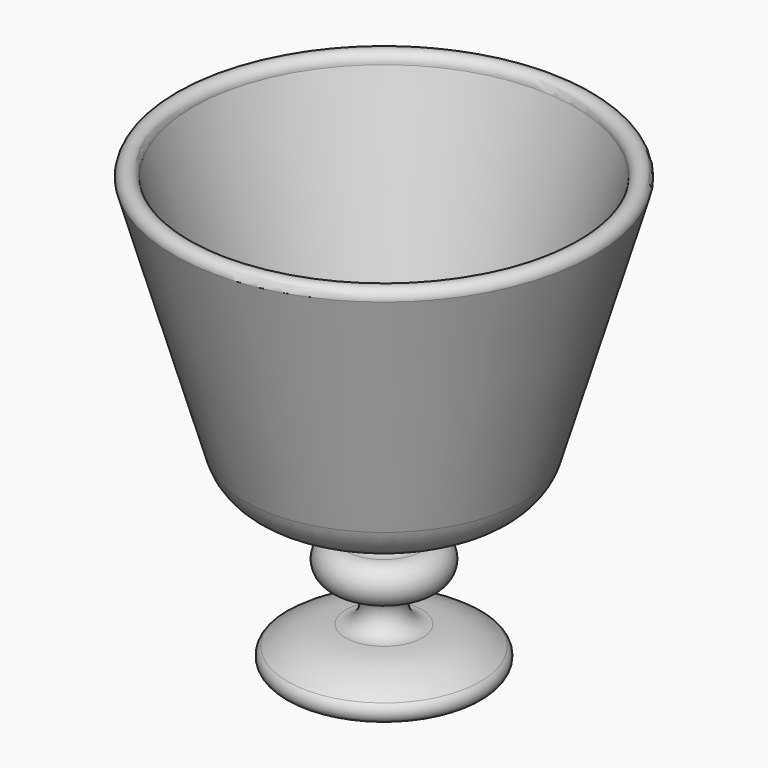
from build123d import *


with BuildPart() as f1:
    # F0 (on Front) → F1 (revolve)
    with BuildSketch(Plane.XZ):
        with BuildLine():
            Line((0, -28.575), (0, 0))
            Line((0, 0), (-14.30351, 0))
            ThreePointArc((-14.30351, 0), (-18.105298, 1.263851), (-20.393733, 4.552313))
            Line((-20.393733, 4.552313), (-31.75, 43.025189))
            ThreePointArc((-31.75, 43.025189), (-33.3375, 44.725327), (-34.925, 43.025189))
            Line((-34.925, 43.025189), (-23.169043, 3.198238))
            ThreePointArc((-23.169043, 3.198238), (-19.965233, -1.405608), (-14.64273, -3.175))
            Line((-14.64273, -3.175), (-6.35, -3.175))
            ThreePointArc((-6.35, -3.175), (-3.175, -6.35), (-6.35, -9.525))
            ThreePointArc((-6.35, -9.525), (-9.525, -12.7), (-6.35, -15.875))
            ThreePointArc((-6.35, -15.875), (-3.175, -19.05), (-6.35, -22.225))
            ThreePointArc((-6.35, -22.225), (-11.438147, -23.062501), (-15.989434, -25.486637))
            ThreePointArc((-15.989434, -25.486637), (-16.574627, -27.40562), (-14.944443, -28.575))
            Line((-14.944443, -28.575), (0, -28.575))
        make_face()
    revolve(axis=Axis((0, 0, 10.377245), (0, 0, 1)))


solid = f1.part
